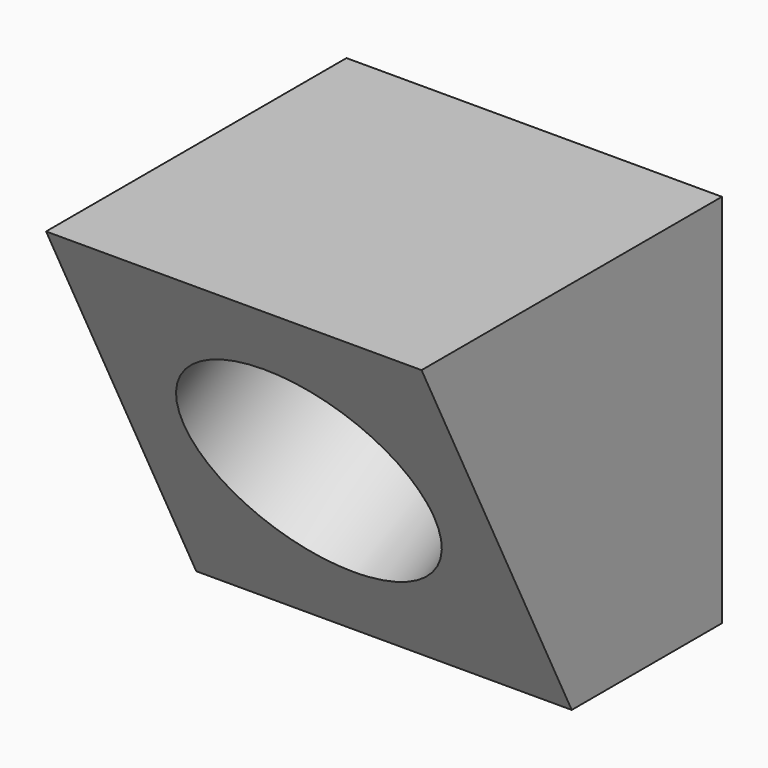
from build123d import *

# Parameters (mm, degrees)
F0_W     = 30
F0_H     = 30
F1_DEPTH = 30
F3_DEPTH = 30
F4_R     = 10
F5_DEPTH = 10
F6_R     = 5
F7_DEPTH = 5


with BuildPart() as f1:
    # F0 (on Front) → F1 (new body)
    with BuildSketch(Plane.XZ):
        Rectangle(F0_W, F0_H)
    extrude(amount=F1_DEPTH)

    # F2 (on face) → F3 (cut)
    with BuildSketch(Plane(origin=(-15, 0, 0), x_dir=(0, -1, 0), z_dir=(-1, 0, 0))):
        Polygon((30, -15), (30, 15), (15, -15), align=None)
    extrude(amount=-F3_DEPTH, mode=Mode.SUBTRACT)

    # F4 (on face) → F5 (cut)
    with BuildSketch(Plane(origin=(0, -18, -9), x_dir=(1, 0, 0), z_dir=(0, -0.894427, -0.447214))):
        with Locations((0, 10.062306)):
            Circle(F4_R)
    extrude(amount=-F5_DEPTH, mode=Mode.SUBTRACT)

    # F6 (on face) → F7 (cut)
    with BuildSketch(Plane(origin=(-15, 0, 0), x_dir=(0, -1, 0), z_dir=(-1, 0, 0))):
        with Locations((11.25, 0)):
            Circle(F6_R)
    extrude(amount=-F7_DEPTH, mode=Mode.SUBTRACT)


solid = f1.part
